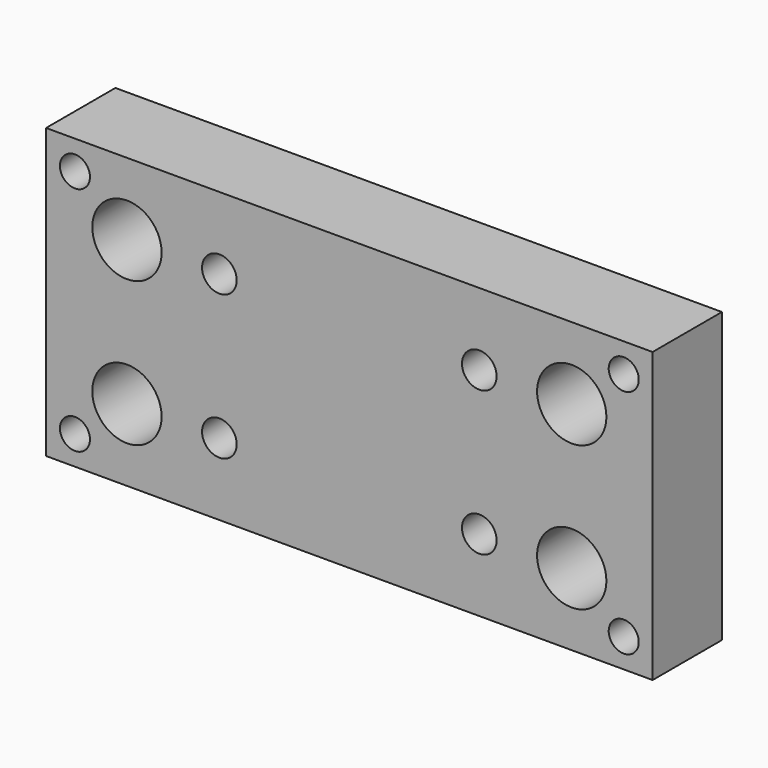
from build123d import *

# Parameters (mm, degrees)
F0_W     = 105
F0_H     = 50
F0_R     = 6
F1_DEPTH = 15
F2_R     = 3
F3_DEPTH = 15
F4_R     = 2.6
F5_DEPTH = 15


with BuildPart() as f1:
    # F0 (on Front) → F1 (new body)
    with BuildSketch(Plane.XZ):
        with Locations((52.5, 25)):
            Rectangle(F0_W, F0_H)
        with Locations((14, 12.5)):
            Circle(F0_R, mode=Mode.SUBTRACT)
        with Locations((91, 12.5)):
            Circle(F0_R, mode=Mode.SUBTRACT)
        with Locations((14, 37.5)):
            Circle(F0_R, mode=Mode.SUBTRACT)
        with Locations((91, 37.5)):
            Circle(F0_R, mode=Mode.SUBTRACT)
    extrude(amount=F1_DEPTH)

    # F2 (on face) → F3 (cut, through all)
    with BuildSketch(Plane.XZ.offset(15)):
        with Locations((30, 37.5)):
            Circle(F2_R)
        with Locations((75, 37.5)):
            Circle(F2_R)
        with Locations((30, 12.5)):
            Circle(F2_R)
        with Locations((75, 12.5)):
            Circle(F2_R)
    extrude(amount=-F3_DEPTH, mode=Mode.SUBTRACT)

    # F4 (on face) → F5 (cut, through all)
    with BuildSketch(Plane.XZ.offset(15)):
        with Locations((5, 45)):
            Circle(F4_R)
        with Locations((100, 45)):
            Circle(F4_R)
        with Locations((100, 5)):
            Circle(F4_R)
        with Locations((5, 5)):
            Circle(F4_R)
    extrude(amount=-F5_DEPTH, mode=Mode.SUBTRACT)


solid = f1.part
